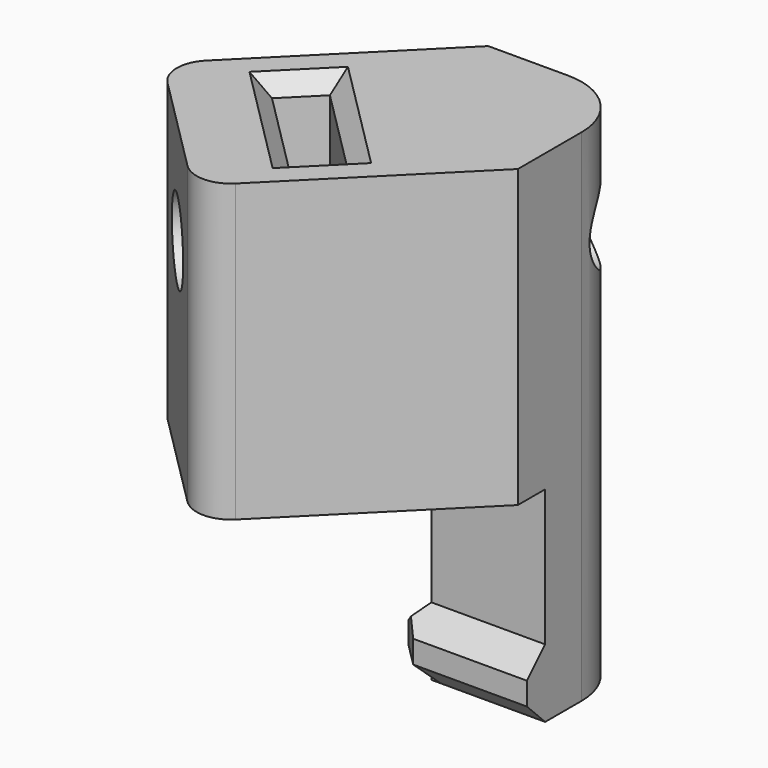
from build123d import *

# Parameters (mm, degrees)
BOX406004_W                 = 5.8
BOX406004_H                 = 14.8
BOX406004_DEPTH             = 2
BOX406004_ROLL_ANGLE        = 89.999938
BOX406004_PITCH_ANGLE       = -2.6e-05
BOX406004_PLACEMENT_ANGLE   = -45.000013
CYLINDER066_R               = 1.75
CYLINDER066_DEPTH           = 33
CYLINDER066_ROLL_ANGLE      = 90.000024
CYLINDER066_PITCH_ANGLE     = 1e-05
CYLINDER066_PLACEMENT_ANGLE = -45.000049
BOX404_W                    = 5
BOX404_H                    = 5
BOX404_DEPTH                = 14
BOX406007_W                 = 14
BOX406007_H                 = 10
BOX406007_DEPTH             = 14
BOX406007_PLACEMENT_ANGLE   = 45
BOX405_W                    = 15
BOX405_H                    = 15
BOX405_DEPTH                = 13
CHAMFER_SIZE                = 8.5
FILLET_R                    = 1.5
BOX406008009_W              = 6
BOX406008009_H              = 6
BOX406008009_DEPTH          = 3
CHAMFER029_SIZE             = 1
CHAMFER030_SIZE             = 1
CHAMFER033_SIZE             = 1
FILLET006_R                 = 3
CHAMFER034_SIZE             = 0.7


with BuildPart() as box406004:
    # Box406004 → Box406004 (new body)
    with BuildSketch(Plane.XY):
        with Locations((2.9, 7.4)):
            Rectangle(BOX406004_W, BOX406004_H)
    extrude(amount=BOX406004_DEPTH)


with BuildPart() as box406004_1:
    # Box406004 roll: moved
    add(box406004.part.rotate(Axis((0, 0, 0), (1, 0, 0)), BOX406004_ROLL_ANGLE))


with BuildPart() as box406004_2:
    # Box406004 pitch: moved
    add(box406004_1.part.rotate(Axis((0, 0, 0), (0, 1, 0)), BOX406004_PITCH_ANGLE))


with BuildPart() as box406004_3:
    # Box406004 placement: moved
    add(box406004_2.part.moved(Location((15.7, 19.8, 7.6))).rotate(Axis((15.7, 19.8, 7.6), (0, 0, 1)), BOX406004_PLACEMENT_ANGLE))


with BuildPart() as finger_cavity:
    # Cylinder066 → Cylinder066 (new body)
    with BuildSketch(Plane.XY):
        Circle(CYLINDER066_R)
    extrude(amount=CYLINDER066_DEPTH)


with BuildPart() as finger_cavity_1:
    # Cylinder066 roll: moved
    add(finger_cavity.part.rotate(Axis((0, 0, 0), (1, 0, 0)), CYLINDER066_ROLL_ANGLE))


with BuildPart() as finger_cavity_2:
    # Cylinder066 pitch: moved
    add(finger_cavity_1.part.rotate(Axis((0, 0, 0), (0, 1, 0)), CYLINDER066_PITCH_ANGLE))


with BuildPart() as finger_cavity_3:
    # Cylinder066 placement: moved
    add(finger_cavity_2.part.moved(Location((26.8701, 26.8701, 10.5))).rotate(Axis((26.8701, 26.8701, 10.5), (0, 0, 1)), CYLINDER066_PLACEMENT_ANGLE))

    # Fusion103077010: union Box406004
    add(box406004_3.part)


with BuildPart() as cube334:
    # Box404 → Box404 (new body)
    with BuildSketch(Plane(origin=(20, 20, -7), x_dir=(1, 0, 0), z_dir=(0, 0, 1))):
        with Locations((2.5, 2.5)):
            Rectangle(BOX404_W, BOX404_H)
    extrude(amount=BOX404_DEPTH)


with BuildPart() as cube338:
    # Box406007 → Box406007 (new body)
    with BuildSketch(Plane.XY):
        with Locations((7, 5)):
            Rectangle(BOX406007_W, BOX406007_H)
    extrude(amount=BOX406007_DEPTH)


with BuildPart() as cube338_1:
    # Box406007 placement: moved
    add(cube338.part.moved(Location((1.78, 11.68, 2))).rotate(Axis((1.78, 11.68, 2), (0, 0, -1)), BOX406007_PLACEMENT_ANGLE))


with BuildPart() as fillet_body:
    # Box405 → Box405 (new body)
    with BuildSketch(Plane(origin=(10, 10, 2), x_dir=(1, 0, 0), z_dir=(0, 0, 1))):
        with Locations((7.5, 7.5)):
            Rectangle(BOX405_W, BOX405_H)
    extrude(amount=BOX405_DEPTH)

    # Chamfer
    chamfer_edges = [fillet_body.edges().sort_by_distance(p)[0] for p in [
        (10, 25, 8.5),
        (25, 10, 8.5),
    ]]
    chamfer(chamfer_edges, length=CHAMFER_SIZE)

    # Cut173011017: cut Cube338
    add(cube338_1.part, mode=Mode.SUBTRACT)

    # Fillet
    fillet_edges = [fillet_body.edges().sort_by_distance(p)[0] for p in [
        (10.551068, 17.051068, 8.5),
        (17.051068, 10.551068, 8.5),
    ]]
    fillet(fillet_edges, radius=FILLET_R)


with BuildPart() as finger:
    # Box406008009 → Box406008009 (new body)
    with BuildSketch(Plane(origin=(19, 19, -7), x_dir=(1, 0, 0), z_dir=(0, 0, 1))):
        with Locations((3, 3)):
            Rectangle(BOX406008009_W, BOX406008009_H)
    extrude(amount=BOX406008009_DEPTH)

    # Chamfer029
    chamfer029_edges = [finger.edges().sort_by_distance(p)[0] for p in [
        (19, 22, -4),
        (22, 19, -4),
    ]]
    chamfer(chamfer029_edges, length=CHAMFER029_SIZE)

    # Chamfer030
    chamfer030_edges = [finger.edges().sort_by_distance(p)[0] for p in [
        (19, 19, -6),
    ]]
    chamfer(chamfer030_edges, length=CHAMFER030_SIZE)

    # Chamfer033
    chamfer033_edges = [finger.edges().sort_by_distance(p)[0] for p in [
        (19, 22.5, -7),
        (19.5, 19.5, -7),
        (22.5, 19, -7),
    ]]
    chamfer(chamfer033_edges, length=CHAMFER033_SIZE)

    # Fusion103077013004017007: union Cube334, Fillet body
    add(cube334.part)
    add(fillet_body.part)

    # Fillet006
    fillet006_edges = [finger.edges().sort_by_distance(p)[0] for p in [
        (25, 25, -5.5),
        (25, 25, -1),
        (25, 25, 4.5),
        (25, 25, 11),
    ]]
    fillet(fillet006_edges, radius=FILLET006_R)

    # Cut173011018: cut finger-cavity
    add(finger_cavity_3.part, mode=Mode.SUBTRACT)

    # Chamfer034
    chamfer034_edges = [finger.edges().sort_by_distance(p)[0] for p in [
        (16.336399, 16.335185, 15),
        (19.094115, 14.991681, 15),
        (17.750613, 17.749398, 15),
        (14.992896, 19.092901, 15),
    ]]
    chamfer(chamfer034_edges, length=CHAMFER034_SIZE)


solid = finger.part
